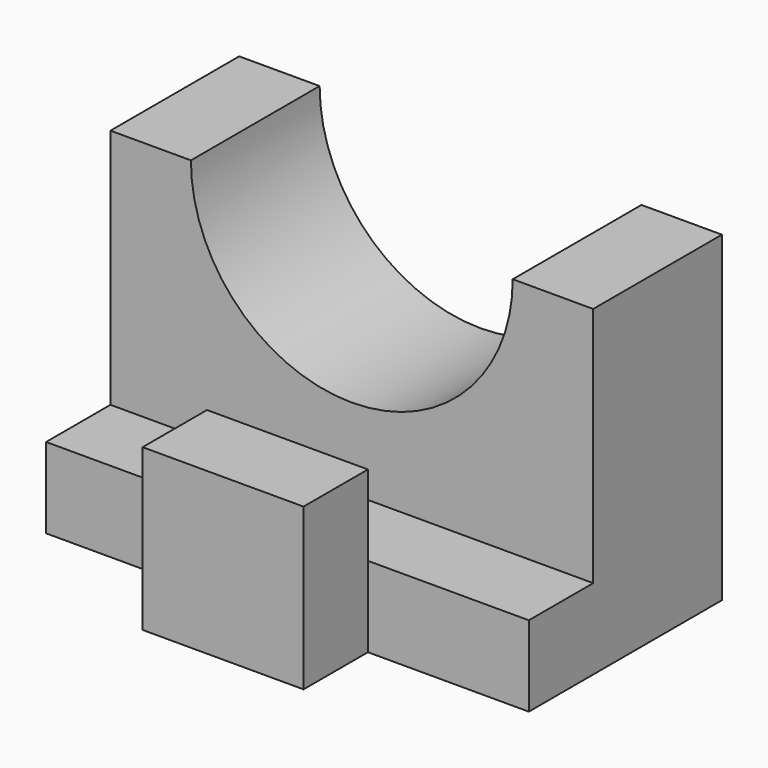
from build123d import *

# Parameters (mm, degrees)
F1_DEPTH = 30
F3_DEPTH = 20.001
F4_W     = 20
F4_H     = 10
F5_DEPTH = 10


with BuildPart() as f1:
    # F0 (on Right) → F1 (new body, symmetric)
    with BuildSketch(Plane.YZ):
        Polygon((-30, 0), (0, 0), (0, 40), (-20, 40), (-20, 10), (-30, 10), align=None)
    extrude(amount=F1_DEPTH, both=True)

    # F2 (on face) → F3 (cut, through all)
    with BuildSketch(Plane.XZ.offset(20)):
        with BuildLine():
            Line((20, 40), (-20, 40))
            ThreePointArc((-20, 40), (0, 20), (20, 40))
        make_face()
    extrude(amount=-F3_DEPTH, mode=Mode.SUBTRACT)

    # F4 (on face) → F5 (join)
    with BuildSketch(Plane.XZ.offset(30)):
        with Locations((0, 5)):
            Rectangle(F4_W, F4_H)
        with Locations((0, 15)):
            Rectangle(F4_W, F4_H)
    extrude(amount=F5_DEPTH)


solid = f1.part
